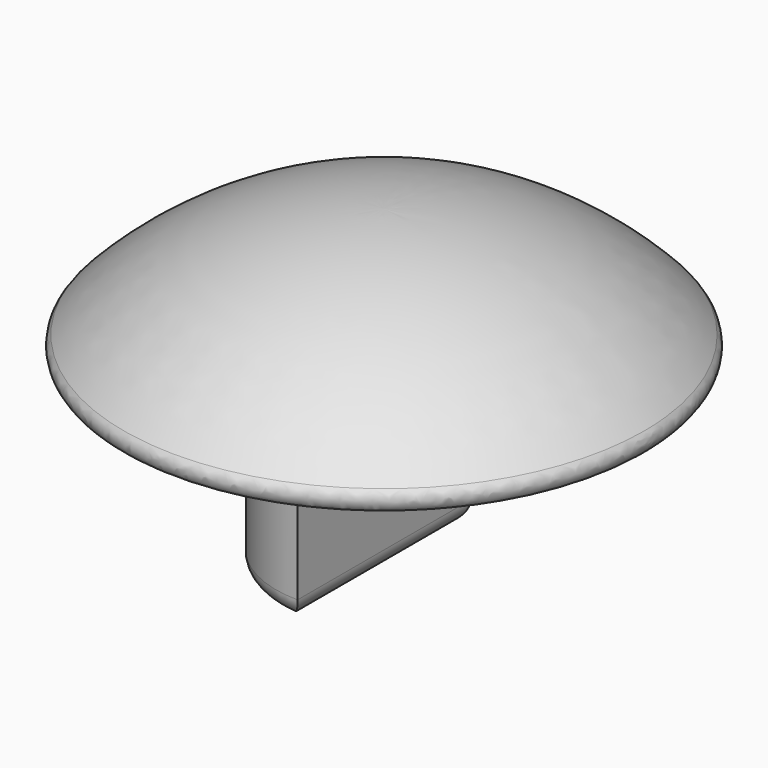
from build123d import *

# Parameters (mm, degrees)
F2_W     = 4.05
F2_H     = 8.1
F3_DEPTH = 6
F4_R     = 0.75
F5_R     = 0.5


with BuildPart() as f1:
    # F0 (on Front) → F1 (revolve)
    with BuildSketch(Plane.XZ):
        with BuildLine():
            Line((4.05, 0), (4.05, 6))
            Line((4.05, 6), (5.5, 7))
            Line((5.5, 7), (10.5, 7))
            ThreePointArc((10.5, 7), (5.814852, 10.686189), (0, 12))
            Line((0, 12), (0, 0))
            Line((0, 0), (4.05, 0))
        make_face()
    revolve(axis=Axis((0, 0, 6), (0, 0, -1)))

    # F2 (on face) → F3 (cut)
    with BuildSketch(Plane(origin=(0, 0, 0), x_dir=(1, 0, 0), z_dir=(0, 0, -1))):
        with Locations((2.025, 0)):
            Rectangle(F2_W, F2_H)
    extrude(amount=-F3_DEPTH, mode=Mode.SUBTRACT)

    # F4
    f4_edges = [f1.edges().sort_by_distance(p)[0] for p in [
        (-4.05, 0, 0),
        (0, 0, 0),
        (0, 0, 6),
    ]]
    fillet(f4_edges, radius=F4_R)

    # F5
    f5_edges = [f1.edges().sort_by_distance(p)[0] for p in [
        (-5.5, 0, 7),
        (-10.5, 0, 7),
    ]]
    fillet(f5_edges, radius=F5_R)


solid = f1.part
